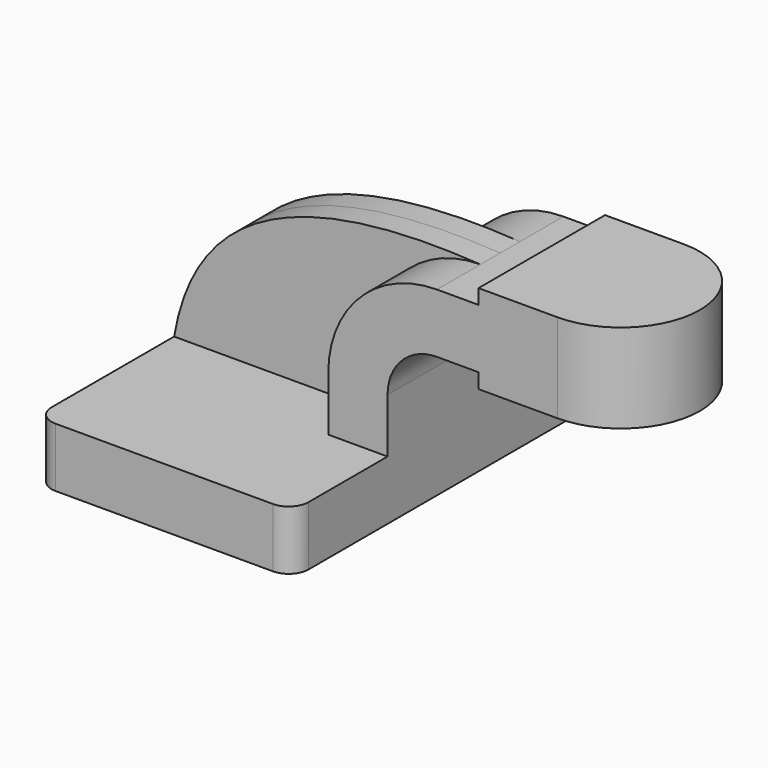
from build123d import *

# Parameters (mm, degrees)
F1_DEPTH = 63.5
F2_DEPTH = 25.4
F3_DEPTH = 7.9375
F0_W     = 25.4
F0_H     = 28.575
F5_R     = 6.35


with BuildPart() as f1:
    # F0 (on Front) → F1 (new body, symmetric)
    with BuildSketch(Plane.XZ):
        Polygon((22.225, 9.525), (-41.275, 9.525), (-41.275, -9.525), (41.275, -9.525), (41.275, 9.525), align=None)
    extrude(amount=F1_DEPTH, both=True)

    # F0 (on Front) → F2 (join, symmetric)
    with BuildSketch(Plane.XZ):
        with BuildLine():
            Line((22.225, 27.0002), (22.225, 9.525))
            Line((22.225, 9.525), (41.275, 9.525))
            Line((41.275, 9.525), (41.275, 27.0002))
            ThreePointArc((41.275, 27.0002), (45.92468, 38.22552), (57.15, 42.8752))
            Line((57.15, 42.8752), (70.502212, 42.8752))
            Line((70.502212, 42.8752), (70.502212, 61.9252))
            Line((70.502212, 61.9252), (57.15, 61.9252))
            ThreePointArc((57.15, 61.9252), (32.454296, 51.695904), (22.225, 27.0002))
        make_face()
        Polygon((70.502212, 66.675), (70.502212, 61.9252), (70.502212, 42.8752), (70.502212, 38.1), (95.902212, 38.1), (95.902212, 66.675), align=None)
    extrude(amount=F2_DEPTH, both=True)

    # F0 (on Front) → F3 (join, symmetric)
    with BuildSketch(Plane.XZ):
        with BuildLine():
            add(Edge.make_bspline(
                [(-41.275, 9.525), (-36.434188, 37.679806), (-16.919576, 66.744119), (57.15, 61.9252)],
                knots=[0, 0, 0, 0, 111.504536, 111.504536, 111.504536, 111.504536], degree=3))
            Line((-41.275, 9.525), (22.225, 9.525))
            Line((22.225, 9.525), (22.225, 27.0002))
            ThreePointArc((22.225, 27.0002), (32.454296, 51.695904), (57.15, 61.9252))
        make_face()
    extrude(amount=F3_DEPTH, both=True)

    # F0 (on Front) → F4 (revolve)
    with BuildSketch(Plane.XZ):
        with Locations((108.602212, 52.3875)):
            Rectangle(F0_W, F0_H)
    revolve(axis=Axis((95.902212, 0, 52.3875), (0, 0, 1)))

    # F5
    f5_edges = [f1.edges().sort_by_distance(p)[0] for p in [
        (41.275, -63.5, 0),
        (-41.275, -63.5, 0),
        (41.275, 63.5, 0),
        (-41.275, 63.5, 0),
    ]]
    fillet(f5_edges, radius=F5_R)


solid = f1.part
